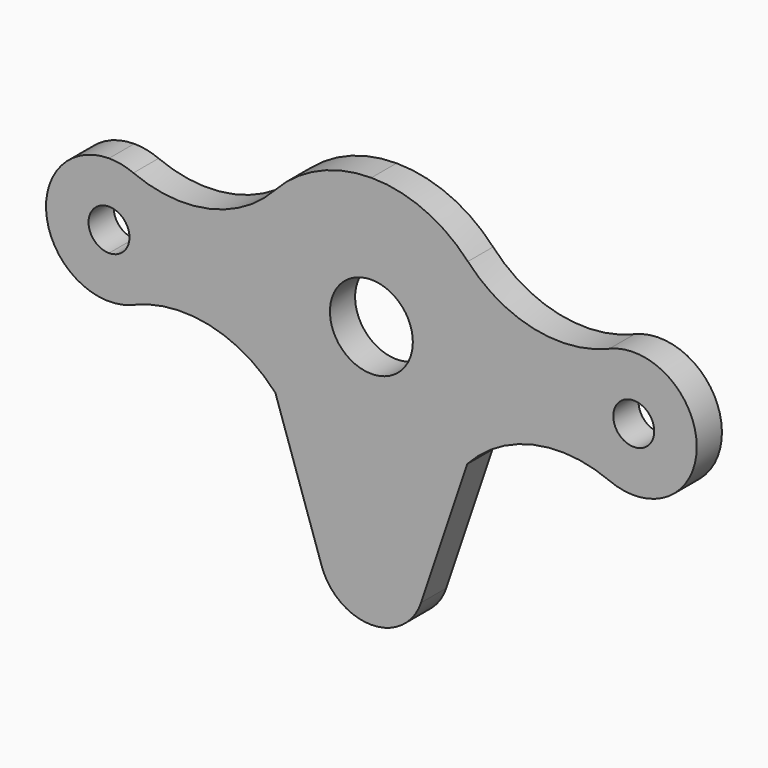
from build123d import *

# Parameters (mm, degrees)
F0_R     = 1.95
F1_DEPTH = 3


with BuildPart() as f1:
    # F0 (on Front) → F1 (new body)
    with BuildSketch(Plane.XZ):
        with BuildLine():
            ThreePointArc((9.196429, 8.46615), (5.021111, 11.447202), (0, 12.5))
            ThreePointArc((0, 12.5), (-5.021111, 11.447202), (-9.196429, 8.46615))
            ThreePointArc((-9.196429, 8.46615), (-15.471851, 4.868407), (-22.675, 5.531218))
            ThreePointArc((-22.675, 5.531218), (-23.814106, 5.881637), (-25, 6))
            ThreePointArc((-25, 6), (-30.968842, -0.610671), (-23.785, -5.875694))
            ThreePointArc((-23.785, -5.875694), (-23.22164, -5.730396), (-22.675, -5.531218))
            ThreePointArc((-22.675, -5.531218), (-15.471851, -4.868407), (-9.196429, -8.46615))
            ThreePointArc((-9.196429, -8.46615), (-9.170756, -8.493952), (-9.145, -8.521677))
            ThreePointArc((-9.145, -8.521677), (-9.145117, -8.521895), (-9.145235, -8.522114))
            Line((-9.145235, -8.522114), (-4.73808, -21.597059))
            ThreePointArc((-4.73808, -21.597059), (0, -25), (4.73808, -21.597059))
            Line((4.73808, -21.597059), (9.145235, -8.522114))
            ThreePointArc((9.145235, -8.522114), (15.434808, -4.876534), (22.675, -5.531218))
            ThreePointArc((22.675, -5.531218), (31, 0), (22.675, 5.531218))
            ThreePointArc((22.675, 5.531218), (15.471851, 4.868407), (9.196429, 8.46615))
        make_face()
        with BuildLine():
            ThreePointArc((-25, -1.95), (-26.95, 0), (-25, 1.95))
            ThreePointArc((-25, 1.95), (-23.621142, 1.378858), (-23.05, 0))
            ThreePointArc((-23.05, 0), (-23.621142, -1.378858), (-25, -1.95))
        make_face(mode=Mode.SUBTRACT)
        with BuildLine():
            ThreePointArc((0, 3.95), (2.793072, 2.793072), (3.95, 0))
            ThreePointArc((3.95, 0), (-2.793072, -2.793072), (0, 3.95))
        make_face(mode=Mode.SUBTRACT)
        with Locations((25, 0)):
            Circle(F0_R, mode=Mode.SUBTRACT)
    extrude(amount=F1_DEPTH)


solid = f1.part
